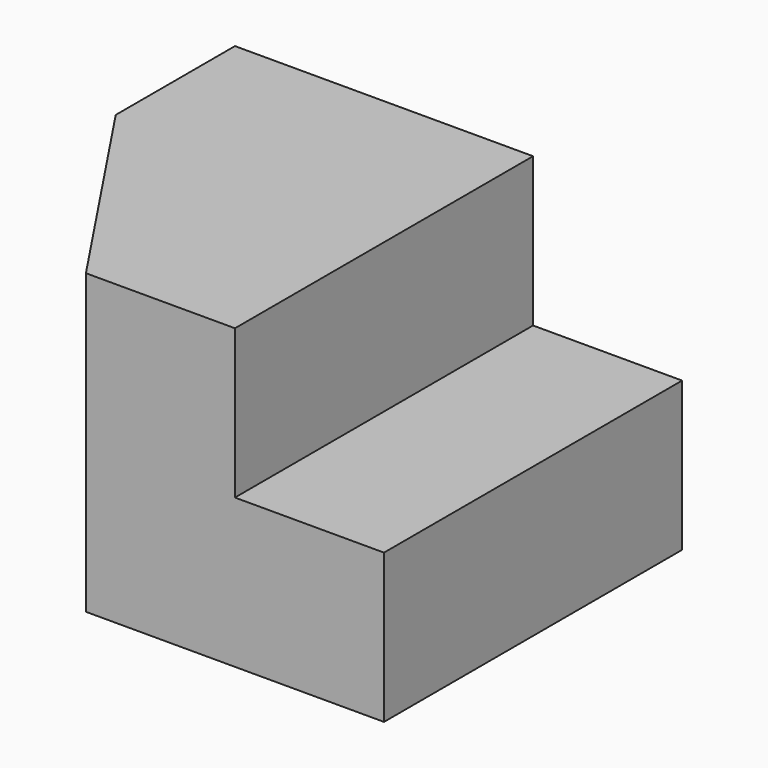
from build123d import *

# Parameters (mm, degrees)
F0_W     = 10
F0_H     = 20
F1_DEPTH = 25
F3_DEPTH = 20.001


with BuildPart() as f1:
    # F0 (on Front) → F1 (new body)
    with BuildSketch(Plane.XZ):
        with Locations((5, 10)):
            Rectangle(F0_W, F0_H)
        Polygon((10, 20), (10, 0), (30, 0), (30, 10), (20, 10), (20, 20), align=None)
    extrude(amount=F1_DEPTH)

    # F2 (on face) → F3 (cut, through all)
    with BuildSketch(Plane.XY.offset(20)):
        Polygon((10, -25), (0, -10), (0, -25), align=None)
    extrude(amount=-F3_DEPTH, mode=Mode.SUBTRACT)


solid = f1.part
